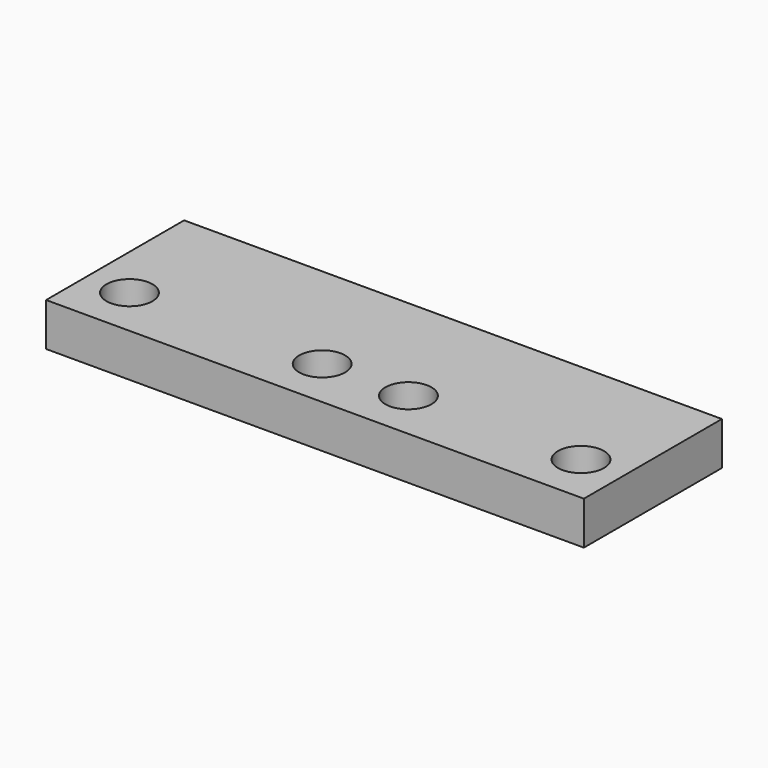
from build123d import *

# Parameters (mm, degrees)
SKETCH_W  = 37.4
SKETCH_H  = 12
SKETCH_R  = 1.6
PAD_DEPTH = 3


with BuildPart() as part:
    # Sketch → Pad (new body)
    with BuildSketch(Plane.XY):
        with Locations((18.7, 6)):
            Rectangle(SKETCH_W, SKETCH_H)
        with Locations((3, 3.5)):
            Circle(SKETCH_R, mode=Mode.SUBTRACT)
        with Locations((16.4, 3.5)):
            Circle(SKETCH_R, mode=Mode.SUBTRACT)
        with Locations((22.4, 3.5)):
            Circle(SKETCH_R, mode=Mode.SUBTRACT)
        with Locations((34.4, 3.5)):
            Circle(SKETCH_R, mode=Mode.SUBTRACT)
    extrude(amount=PAD_DEPTH)


solid = part.part
